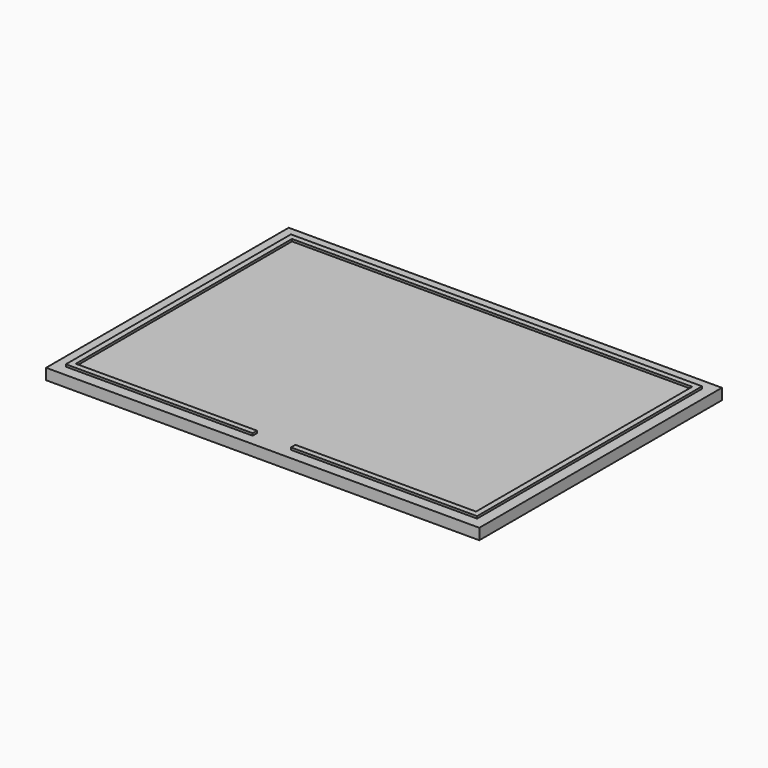
from build123d import *

# Parameters (mm, degrees)
F0_W     = 100
F0_H     = 70
F1_DEPTH = 2.54
F2_W     = 94.92
F2_H     = 64.92
F2_W_2   = 92.38
F2_H_2   = 62.38
F3_DEPTH = 0.508
F4_W     = 8.86
F4_H     = 0.508
F5_DEPTH = 25.4


with BuildPart() as f1:
    # F0 (on Top) → F1 (new body)
    with BuildSketch(Plane.XY):
        Rectangle(F0_W, F0_H)
    extrude(amount=F1_DEPTH)

    # F2 (on face) → F3 (join)
    with BuildSketch(Plane.XY.offset(2.54)):
        Rectangle(F2_W, F2_H)
        Rectangle(F2_W_2, F2_H_2, mode=Mode.SUBTRACT)
    extrude(amount=F3_DEPTH)

    # F4 (on face) → F5 (cut)
    with BuildSketch(Plane.XZ.offset(32.46)):
        with Locations((0.07, 2.794)):
            Rectangle(F4_W, F4_H)
    extrude(amount=-F5_DEPTH, mode=Mode.SUBTRACT)


solid = f1.part
